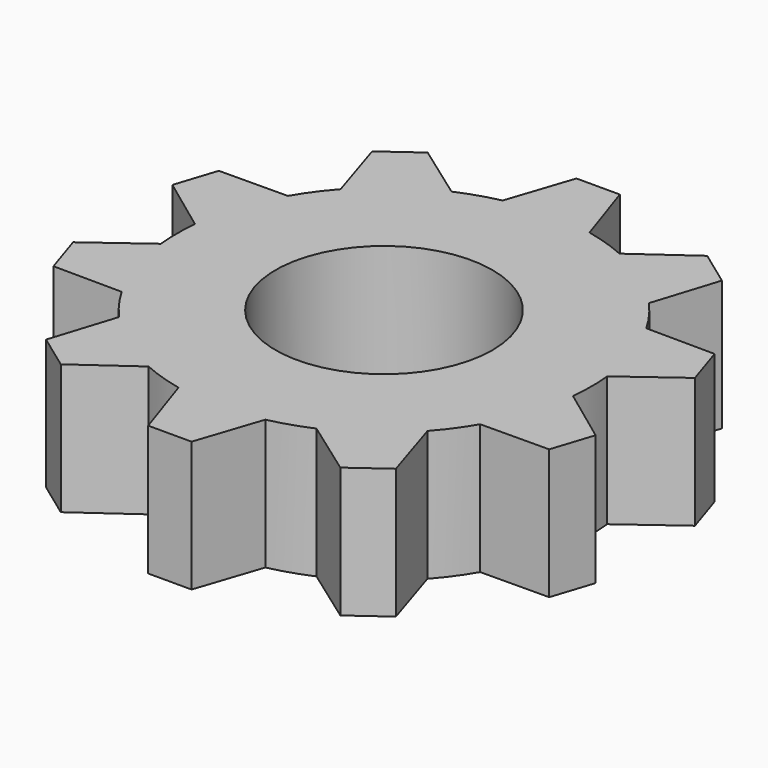
from build123d import *

# Parameters (mm, degrees)
F0_R     = 4.7746482928
F0_R_2   = 2.5
F2_DEPTH = 3
F3_COUNT = 10
F3_ANGLE = 324


with BuildPart() as f2:
    # F0 (on Top) + F1 (on face) → F2 (new body)
    with BuildSketch(Plane.XY):
        Circle(F0_R)
        Circle(F0_R_2, mode=Mode.SUBTRACT)
    with BuildSketch(Plane.XY):
        with BuildLine():
            ThreePointArc((-1, 4.6687542578), (0, 4.7746482928), (1, 4.6687542578))
            Line((1, 4.6687542578), (0.5, 6.1687542578))
            Line((0.5, 6.1687542578), (-0.5, 6.1687542578))
            Line((-0.5, 6.1687542578), (-1, 4.6687542578))
        make_face()
    extrude(amount=F2_DEPTH)

    # F3: F2 ×10 about axis
    f3_axis = Axis((0, 0, 3), (0, 0, -1))


with BuildPart() as f2_1:
    add(f2.part)
    for i in range(1, F3_COUNT):
        add(f2.part.rotate(f3_axis, i * F3_ANGLE / (F3_COUNT - 1)))


solid = f2_1.part
